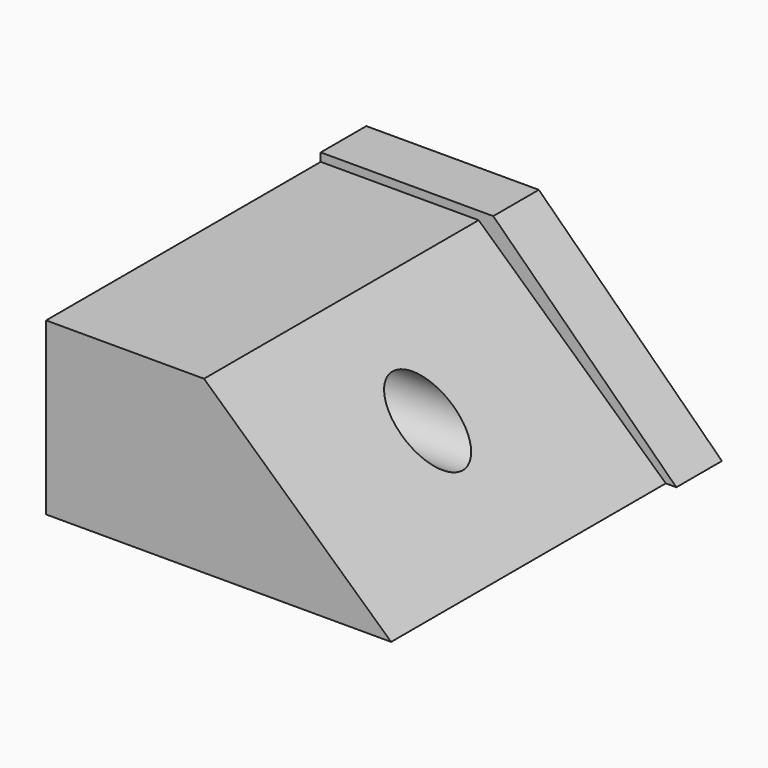
from build123d import *

# Parameters (mm, degrees)
F0_W     = 153.8918465376
F0_H     = 153.1105190516
F1_DEPTH = 76.2
F3_DEPTH = 254
F4_R     = 14.3164019678
F5_DEPTH = 508
F7_DEPTH = 25.4
F9_DEPTH = 63.5


with BuildPart() as f1:
    # F0 (on Top) → F1 (new body)
    with BuildSketch(Plane.XY):
        Rectangle(F0_W, F0_H)
    extrude(amount=F1_DEPTH)

    # F2 (on face) → F3 (cut, symmetric)
    with BuildSketch(Plane.XZ.offset(76.5552595258)):
        Polygon((76.9459232688, 76.2), (-6.5071131103, 76.2), (76.9459232688, 0), align=None)
    extrude(amount=F3_DEPTH, both=True, mode=Mode.SUBTRACT)

    # F4 (on face) → F5 (cut)
    with BuildSketch(Plane(origin=(-76.9459232688, 0, 0), x_dir=(0, -1, 0), z_dir=(-1, 0, 0))):
        with Locations((0, 41.0589724779)):
            Circle(F4_R)
    extrude(amount=-F5_DEPTH, mode=Mode.SUBTRACT)

    # F6 (on face) → F7 (join)
    with BuildSketch(Plane(origin=(0, 76.5552595258, 0), x_dir=(-1, 0, 0), z_dir=(0, 1, 0))):
        Polygon((-81.6596895456, 0), (-76.9459232688, 0), (6.5071131103, 76.2), (76.9459232688, 76.2), (76.9459232688, 79.9183472991), (-81.6596895456, 79.9183472991), align=None)
        Polygon((-76.9459232688, 0), (76.9459232688, 0), (76.9459232688, 76.2), (6.5071131103, 76.2), align=None)
    extrude(amount=F7_DEPTH)

    # F8 (on face) → F9 (cut, symmetric)
    with BuildSketch(Plane.XZ.offset(-76.5552595258)):
        Polygon((0, 79.9183472991), (81.6596895456, 0), (81.6596895456, 79.9183472991), align=None)
    extrude(amount=F9_DEPTH, both=True, mode=Mode.SUBTRACT)


solid = f1.part
